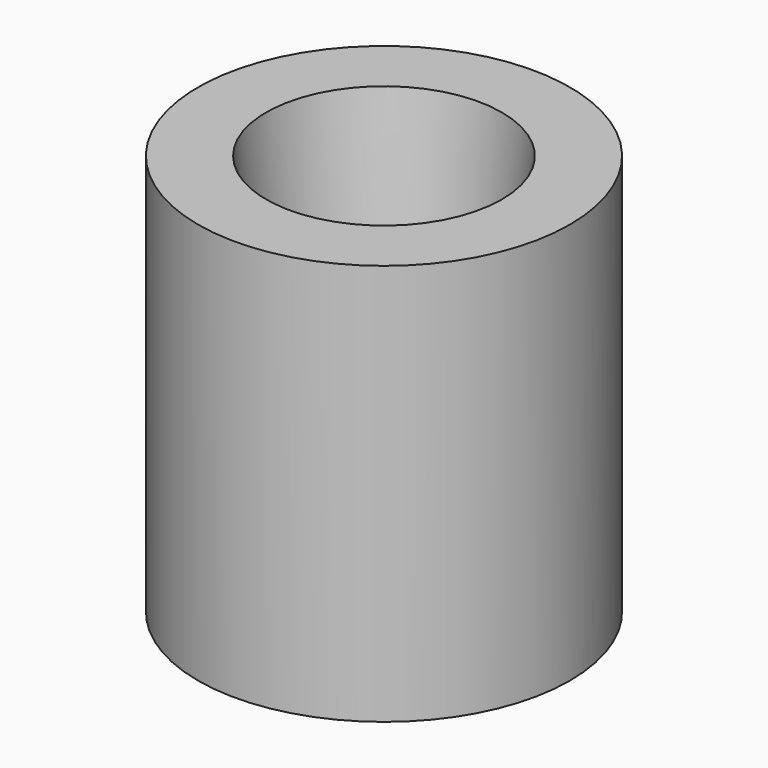
from build123d import *

# Parameters (mm, degrees)
BOX048_W          = 10
BOX048_H          = 10
BOX048_DEPTH      = 6.5
CYLINDER028_R     = 4.4
CYLINDER028_DEPTH = 16


with BuildPart() as cube010:
    # Box048 → Box048 (new body)
    with BuildSketch(Plane(origin=(22.5, -99.5, -31), x_dir=(1, 0, 0), z_dir=(0, 0, 1))):
        with Locations((5, 5)):
            Rectangle(BOX048_W, BOX048_H)
    extrude(amount=BOX048_DEPTH)


with BuildPart() as cone:
    # Cone → Cone (revolve)
    with BuildSketch(Plane(origin=(27.5, -94.5, 71), x_dir=(1, 0, 0), z_dir=(0, -1, 0))):
        Polygon((0, 0), (1.75, 0), (3.5, 16), (0, 16), align=None)
    revolve(axis=Axis((27.5, -94.5, 71), (0, 0, 1)))


with BuildPart() as cut007:
    # Cylinder028 → Cylinder028 (new body)
    with BuildSketch(Plane(origin=(27.5, -94.5, 71), x_dir=(1, 0, 0), z_dir=(0, 0, 1))):
        Circle(CYLINDER028_R)
    extrude(amount=CYLINDER028_DEPTH)

    # Cut006: cut Cone
    add(cone.part, mode=Mode.SUBTRACT)


with BuildPart() as cut007_1:
    # Cut006 placement: moved
    add(cut007.part.moved(Location((0, 0, -111.5))))

    # Cut007: cut Cube010
    add(cube010.part, mode=Mode.SUBTRACT)


solid = cut007_1.part
